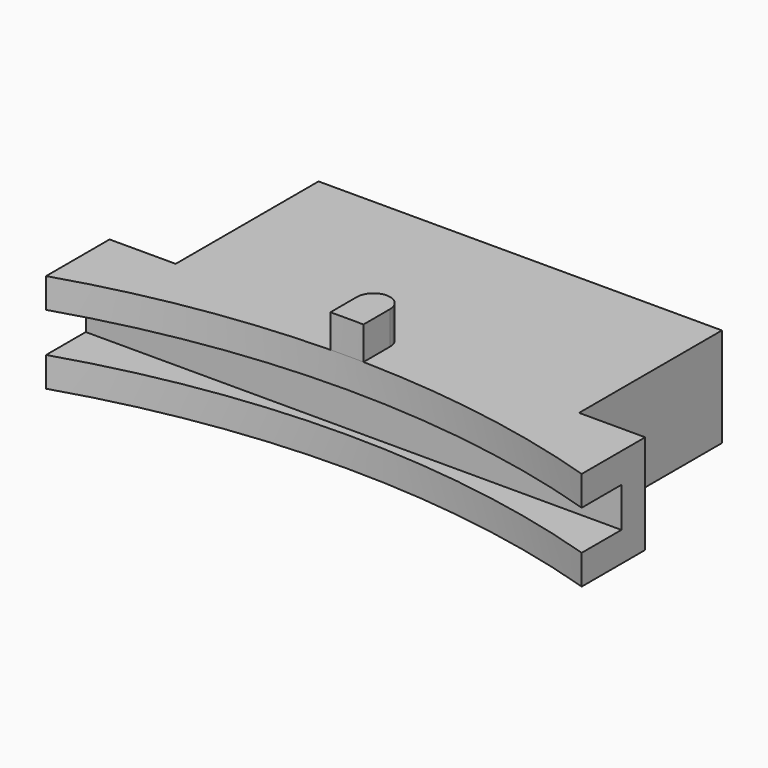
from build123d import *

# Parameters (mm, degrees)
PAD_DEPTH    = 3
SKETCH001_W  = 16.2
SKETCH001_H  = 1.2
POCKET_DEPTH = 1.5
PAD001_DEPTH = 1


with BuildPart() as part:
    # Sketch → Pad (new body)
    with BuildSketch(Plane.XY):
        with BuildLine():
            Line((6.1, 33.346624), (-6.1, 33.346624))
            Line((-6.1, 33.346624), (-6.1, 27.946624))
            Line((-6.1, 27.946624), (-8.1, 27.946624))
            Line((-8.1, 27.946624), (-8.1, 25.546624))
            ThreePointArc((8.1, 25.546624), (0, 26.8), (-8.1, 25.546624))
            Line((8.1, 27.946624), (8.1, 25.546624))
            Line((6.1, 27.946624), (8.1, 27.946624))
            Line((6.1, 33.346624), (6.1, 27.946624))
        make_face()
    extrude(amount=PAD_DEPTH)

    # Sketch001 (on DatumPlane) → Pocket (cut)
    with BuildSketch(Plane(origin=(2.7, 25.546624, 1), x_dir=(1, 0, 0), z_dir=(0, -1, 0))):
        with Locations((-2.7, 0.5)):
            Rectangle(SKETCH001_W, SKETCH001_H)
    extrude(amount=-POCKET_DEPTH, mode=Mode.SUBTRACT)

    # Sketch002 (on Face5 of Pocket) → Pad001 (join)
    with BuildSketch(Plane.XY.offset(3)):
        with BuildLine():
            ThreePointArc((0.5, 27.8), (0, 28.3), (-0.5, 27.8))
            Line((-0.5, 27.8), (-0.5, 26.795335))
            ThreePointArc((0.5, 26.795335), (0, 26.8), (-0.5, 26.795335))
            Line((0.5, 27.8), (0.5, 26.795335))
        make_face()
    extrude(amount=PAD001_DEPTH)


solid = part.part
